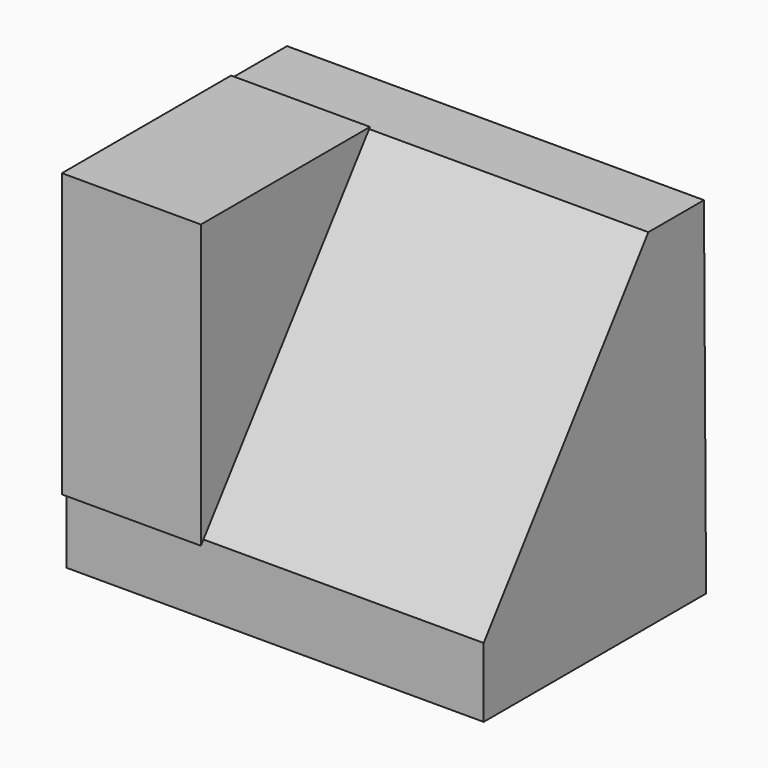
from build123d import *

# Parameters (mm, degrees)
F1_DEPTH = 38.1
F3_DEPTH = 12.7


with BuildPart() as f1:
    # F0 (on Right) → F1 (new body)
    with BuildSketch(Plane.YZ):
        Polygon((-56.35625, 6.35), (-56.35625, 0), (-30.95625, 0), (-31.197688, 31.749082), (-37.547688, 31.749082), align=None)
    extrude(amount=F1_DEPTH)


with BuildPart() as f3:
    # F2 (on Right) → F3 (new body)
    with BuildSketch(Plane.YZ):
        Polygon((-56.907602, 6.134535), (-37.590344, 31.977896), (-56.907602, 31.977896), align=None)
    extrude(amount=F3_DEPTH)


solid = Compound([f1.part, f3.part])
